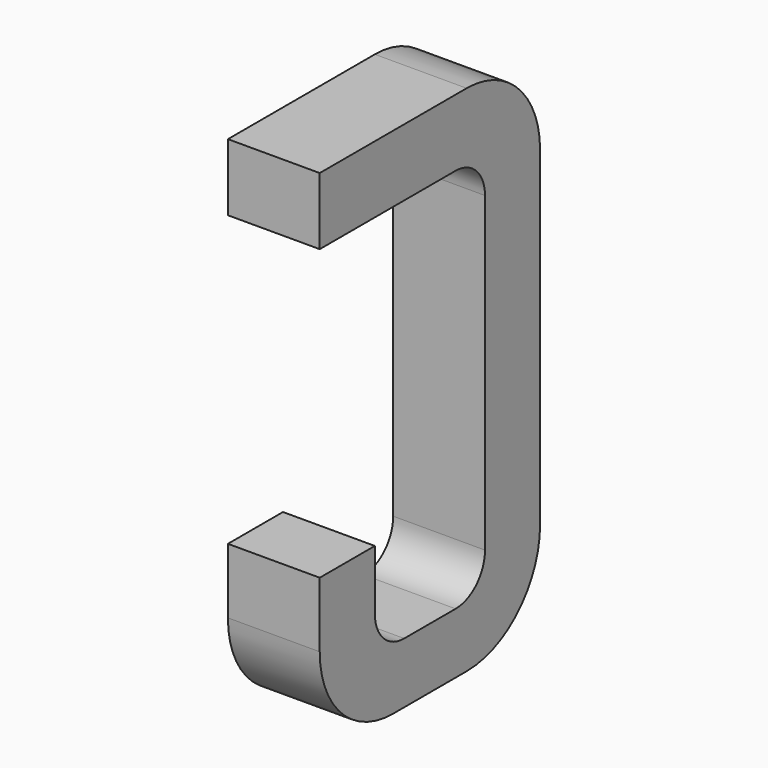
from build123d import *

# Parameters (mm, degrees)
BOX135_W     = 0.5
BOX135_H     = 1.5
BOX135_DEPTH = 2.795
FILLET335_R  = 0.5
FILLET340_R  = 0.5
FILLET331_R  = 0.5
BOX117_W     = 0.75
BOX117_H     = 2.1
BOX117_DEPTH = 1
FILLET328_R  = 0.2
FILLET348_R  = 0.2
FILLET339_R  = 0.2
FILLET320_R  = 0.2
BOX140_W     = 1
BOX140_H     = 1.575
BOX140_DEPTH = 3


with BuildPart() as part:
    # Box135 → Box135 (join)
    with BuildSketch(Plane(origin=(-0.25, 11.125, 0), x_dir=(1, 0, 0), z_dir=(0, 0, 1))):
        with Locations((0.25, 0.75)):
            Rectangle(BOX135_W, BOX135_H)
    extrude(amount=BOX135_DEPTH)

    # Fillet335
    fillet335_edges = [part.edges().sort_by_distance(p)[0] for p in [
        (0, 12.625, 0),
    ]]
    fillet(fillet335_edges, radius=FILLET335_R)

    # Fillet340
    fillet340_edges = [part.edges().sort_by_distance(p)[0] for p in [
        (0, 12.625, 2.795),
    ]]
    fillet(fillet340_edges, radius=FILLET340_R)

    # Fillet331
    fillet331_edges = [part.edges().sort_by_distance(p)[0] for p in [
        (0, 11.125, 0),
    ]]
    fillet(fillet331_edges, radius=FILLET331_R)

    # Box117 → Box117 (cut)
    with BuildSketch(Plane(origin=(-0.5, 11.5, 0.33), x_dir=(0, 1, 0), z_dir=(1, 0, 0))):
        with Locations((0.375, 1.05)):
            Rectangle(BOX117_W, BOX117_H)
    extrude(amount=BOX117_DEPTH, mode=Mode.SUBTRACT)

    # Fillet328
    fillet328_edges = [part.edges().sort_by_distance(p)[0] for p in [
        (0, 11.5, 0.33),
    ]]
    fillet(fillet328_edges, radius=FILLET328_R)

    # Fillet348
    fillet348_edges = [part.edges().sort_by_distance(p)[0] for p in [
        (0, 12.25, 0.33),
    ]]
    fillet(fillet348_edges, radius=FILLET348_R)

    # Fillet339
    fillet339_edges = [part.edges().sort_by_distance(p)[0] for p in [
        (0, 11.5, 2.43),
    ]]
    fillet(fillet339_edges, radius=FILLET339_R)

    # Fillet320
    fillet320_edges = [part.edges().sort_by_distance(p)[0] for p in [
        (0, 12.25, 2.43),
    ]]
    fillet(fillet320_edges, radius=FILLET320_R)

    # Box140 → Box140 (cut)
    with BuildSketch(Plane(origin=(-1, 11, 0.855), x_dir=(0, 1, 0), z_dir=(1, 0, 0))):
        with Locations((0.5, 0.7875)):
            Rectangle(BOX140_W, BOX140_H)
    extrude(amount=BOX140_DEPTH, mode=Mode.SUBTRACT)


with BuildPart() as part_1:
    # Body048 placement: moved
    add(part.part.moved(Location((-8.89, 0, 0))))


solid = part_1.part
